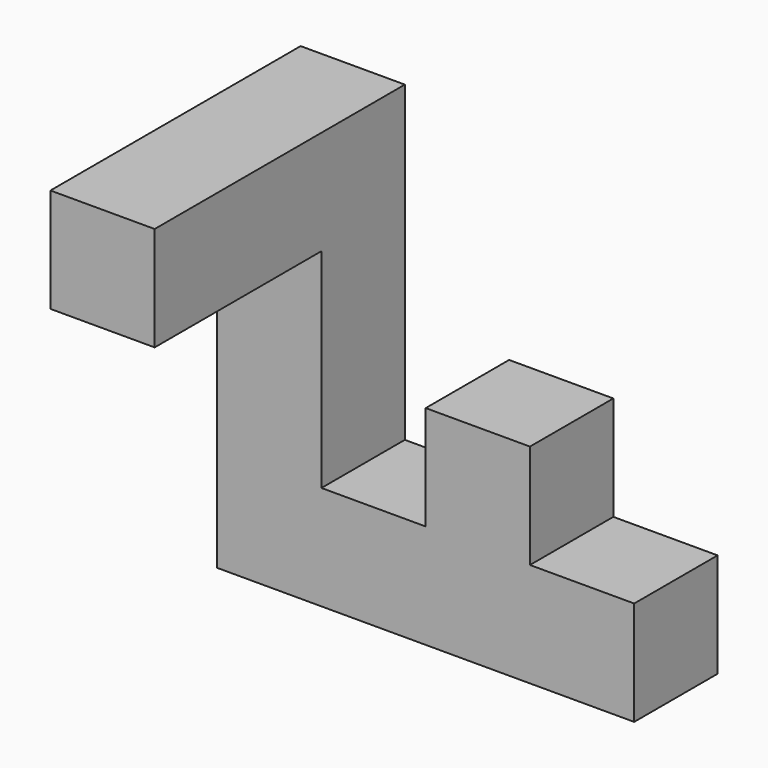
from build123d import *

# Parameters (mm, degrees)
F0_W     = 25.4
F0_H     = 25.4
F1_DEPTH = 25.4
F2_DEPTH = 50.8
F3_DEPTH = 101.6
F4_W     = 25.4
F4_H     = 25.4
F5_DEPTH = 50.8


with BuildPart() as f1:
    # F0 (on Top) → F1 (new body)
    with BuildSketch(Plane.XY):
        with Locations((38.1, 12.7)):
            Rectangle(F0_W, F0_H)
        with Locations((88.9, 12.7)):
            Rectangle(F0_W, F0_H)
    extrude(amount=F1_DEPTH)

    # F0 (on Top) → F2 (join)
    with BuildSketch(Plane.XY):
        with Locations((63.5, 12.7)):
            Rectangle(F0_W, F0_H)
    extrude(amount=F2_DEPTH)

    # F0 (on Top) → F3 (join)
    with BuildSketch(Plane.XY):
        with Locations((12.7, 12.7)):
            Rectangle(F0_W, F0_H)
    extrude(amount=F3_DEPTH)

    # F4 (on face) → F5 (join)
    with BuildSketch(Plane.XZ):
        with Locations((12.7, 88.9)):
            Rectangle(F4_W, F4_H)
    extrude(amount=F5_DEPTH)


solid = f1.part
